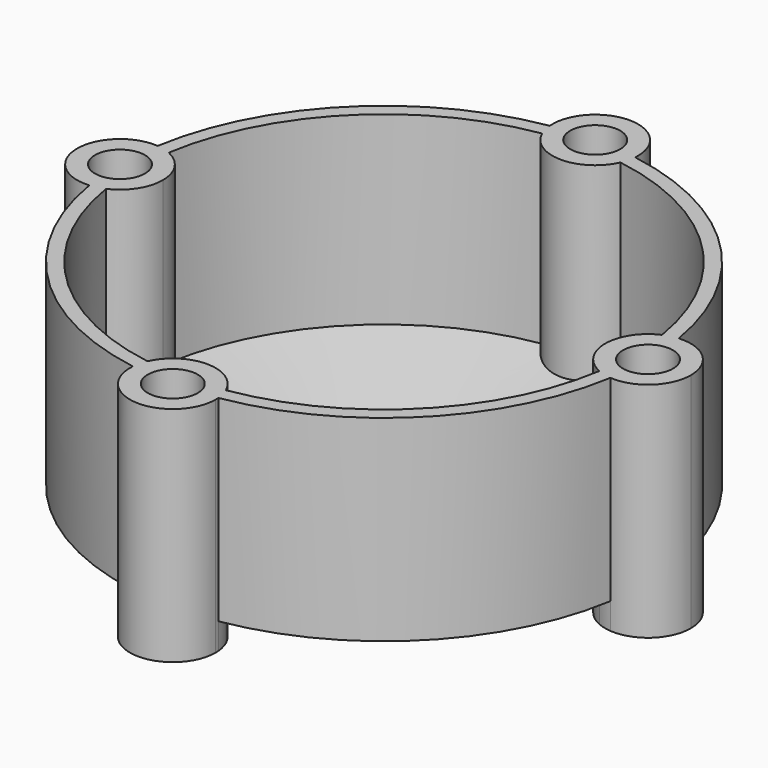
from build123d import *

# Parameters (mm, degrees)
F3_DEPTH = 39.624
F4_R     = 4.445
F5_DEPTH = 41.3102415224


with BuildPart() as f1:
    # F0 (on Front) → F1 (revolve)
    with BuildSketch(Plane.XZ):
        Polygon((17.4939688295, 0), (0, 0), (0, -2.54), (17.7669053052, -2.54), (46.9515744454, 3.8053627059), (46.9515744454, 38.7692414224), (44.4115744454, 38.7692414224), (44.4115744454, 5.8524552733), align=None)
    revolve(axis=Axis((0, 0, 19.3846207112), (0, 0, 1)))

    # F2 (on face) → F3 (join)
    with BuildSketch(Plane.XY.offset(38.7692414224)):
        with BuildLine():
            ThreePointArc((-7.5948700673, -46.333230964), (-0.3094269601, -54.5652893703), (7.62, -46.9515744454))
            ThreePointArc((7.62, -46.9515744454), (7.6137149248, -46.6421474854), (7.5948700673, -46.333230964))
            ThreePointArc((7.5948700673, -46.333230964), (0, -46.9515744454), (-7.5948700673, -46.333230964))
        make_face()
        with BuildLine():
            ThreePointArc((7.62, 46.9515744454), (-0.3094269601, 54.5652893703), (-7.5948700673, 46.333230964))
            ThreePointArc((-7.5948700673, 46.333230964), (0, 46.9515744454), (7.5948700673, 46.333230964))
            ThreePointArc((7.5948700673, 46.333230964), (7.6137149248, 46.6421474854), (7.62, 46.9515744454))
        make_face()
        with BuildLine():
            ThreePointArc((-46.333230964, 7.5948700673), (-54.5715744454, 0), (-46.333230964, -7.5948700673))
            ThreePointArc((-46.333230964, -7.5948700673), (-46.9515744454, 0), (-46.333230964, 7.5948700673))
        make_face()
        with BuildLine():
            ThreePointArc((-6.9655246042, -43.8619357953), (0, -44.4115744454), (6.9655246042, -43.8619357953))
            ThreePointArc((6.9655246042, -43.8619357953), (0, -39.3315744454), (-6.9655246042, -43.8619357953))
        make_face()
        with BuildLine():
            ThreePointArc((43.8619357953, 6.9655246042), (39.3315744454, 0), (43.8619357953, -6.9655246042))
            ThreePointArc((43.8619357953, -6.9655246042), (44.2739515495, -3.4935882577), (44.4115744454, 0))
            ThreePointArc((44.4115744454, 0), (44.2739515495, 3.4935882577), (43.8619357953, 6.9655246042))
        make_face()
        with BuildLine():
            ThreePointArc((-6.9655246042, 43.8619357953), (0, 39.3315744454), (6.9655246042, 43.8619357953))
            ThreePointArc((6.9655246042, 43.8619357953), (0, 44.4115744454), (-6.9655246042, 43.8619357953))
        make_face()
        with BuildLine():
            ThreePointArc((-43.8619357953, 6.9655246042), (-44.4115744454, 0), (-43.8619357953, -6.9655246042))
            ThreePointArc((-43.8619357953, -6.9655246042), (-40.5637952338, -4.1545970614), (-39.3315744454, 0))
            ThreePointArc((-39.3315744454, 0), (-40.5637952338, 4.1545970614), (-43.8619357953, 6.9655246042))
        make_face()
        with BuildLine():
            ThreePointArc((-7.5948700673, -46.333230964), (0, -46.9515744454), (7.5948700673, -46.333230964))
            ThreePointArc((7.5948700673, -46.333230964), (7.3843143351, -45.0710687156), (6.9655246042, -43.8619357953))
            ThreePointArc((6.9655246042, -43.8619357953), (0, -44.4115744454), (-6.9655246042, -43.8619357953))
            ThreePointArc((-6.9655246042, -43.8619357953), (-7.3843143351, -45.0710687156), (-7.5948700673, -46.333230964))
        make_face()
        with BuildLine():
            ThreePointArc((43.8619357953, -6.9655246042), (45.0710687156, -7.3843143351), (46.333230964, -7.5948700673))
            ThreePointArc((46.333230964, -7.5948700673), (46.7967332504, -3.81), (46.9515744454, 0))
            ThreePointArc((46.9515744454, 0), (46.7967332504, 3.81), (46.333230964, 7.5948700673))
            ThreePointArc((46.333230964, 7.5948700673), (45.0710687156, 7.3843143351), (43.8619357953, 6.9655246042))
            ThreePointArc((43.8619357953, 6.9655246042), (44.2739515495, 3.4935882577), (44.4115744454, 0))
            ThreePointArc((44.4115744454, 0), (44.2739515495, -3.4935882577), (43.8619357953, -6.9655246042))
        make_face()
        with BuildLine():
            ThreePointArc((7.5948700673, 46.333230964), (0, 46.9515744454), (-7.5948700673, 46.333230964))
            ThreePointArc((-7.5948700673, 46.333230964), (-7.3843143351, 45.0710687156), (-6.9655246042, 43.8619357953))
            ThreePointArc((-6.9655246042, 43.8619357953), (0, 44.4115744454), (6.9655246042, 43.8619357953))
            ThreePointArc((6.9655246042, 43.8619357953), (7.3843143351, 45.0710687156), (7.5948700673, 46.333230964))
        make_face()
        with BuildLine():
            ThreePointArc((-46.333230964, 7.5948700673), (-46.9515744454, 0), (-46.333230964, -7.5948700673))
            ThreePointArc((-46.333230964, -7.5948700673), (-45.0710687156, -7.3843143351), (-43.8619357953, -6.9655246042))
            ThreePointArc((-43.8619357953, -6.9655246042), (-44.4115744454, 0), (-43.8619357953, 6.9655246042))
            ThreePointArc((-43.8619357953, 6.9655246042), (-45.0710687156, 7.3843143351), (-46.333230964, 7.5948700673))
        make_face()
        with BuildLine():
            ThreePointArc((46.9515744454, 0), (46.7967332504, -3.81), (46.333230964, -7.5948700673))
            ThreePointArc((46.333230964, -7.5948700673), (52.116485997, -5.6025073551), (54.5715744454, 0))
            ThreePointArc((54.5715744454, 0), (52.116485997, 5.6025073551), (46.333230964, 7.5948700673))
            ThreePointArc((46.333230964, 7.5948700673), (46.7967332504, 3.81), (46.9515744454, 0))
        make_face()
    extrude(amount=-F3_DEPTH)

    # F4 (on face) → F5 (cut, through all)
    with BuildSketch(Plane.XY.offset(38.7692414224)):
        with Locations((-46.9515744454, 0)):
            Circle(F4_R)
        with Locations((0, 46.9515744454)):
            Circle(F4_R)
        with Locations((46.9515744454, 0)):
            Circle(F4_R)
        with Locations((0, -46.9515744454)):
            Circle(F4_R)
    extrude(amount=-F5_DEPTH, mode=Mode.SUBTRACT)


solid = f1.part
